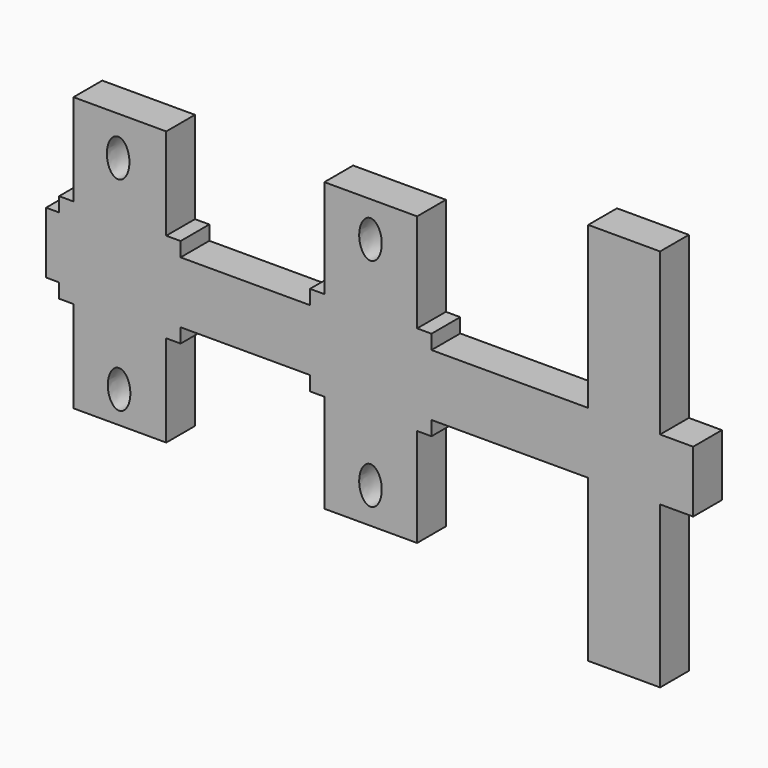
from build123d import *

# Parameters (mm, degrees)
F1_DEPTH = 25
F2_DEPTH = 25


with BuildPart() as f1:
    # F0 (on Front) → F1 (new body)
    with BuildSketch(Plane.XZ):
        Polygon((334.522346, -21.4), (334.522346, 0), (334.522346, 21.4), (311.522346, 21.4), (311.522346, 0), (311.522346, -21.4), align=None)
        Polygon((311.522346, 0), (311.522346, 21.4), (311.522346, 133.486167), (261.522346, 133.486167), (261.522346, 21.4), (261.522346, 0), (261.522346, -21.4), (261.522346, -133.486167), (311.522346, -133.486167), (311.522346, -21.4), align=None)
        Polygon((261.522346, 0), (261.522346, 21.4), (152.522346, 21.4), (152.522346, 0), (152.522346, -21.4), (261.522346, -21.4), align=None)
        Polygon((152.522346, 0), (152.522346, 21.4), (152.522346, 31.4), (142.522346, 31.4), (142.522346, 0), (142.522346, -31.4), (152.522346, -31.4), (152.522346, -21.4), align=None)
        Polygon((142.522346, 0), (142.522346, 31.4), (142.522346, 100), (78.022346, 100), (78.022346, 31.4), (78.022346, 0), (78.022346, -31.4), (78.022346, -100), (142.522346, -100), (142.522346, -31.4), align=None)
        with BuildLine():
            add(Edge.make_bspline(
                [(110.076547, -88.321767), (123.648199, -88.321767), (116.862373, -68.748459), (110.076547, -49.175151), (103.29072, -68.748459), (96.504894, -88.321767), (110.076547, -88.321767)],
                knots=[0, 0, 0, 2.094395, 2.094395, 4.18879, 4.18879, 6.283185, 6.283185, 6.283185], degree=2, weights=[1, 0.5, 1, 0.5, 1, 0.5, 1]))
        make_face(mode=Mode.SUBTRACT)
        with BuildLine():
            add(Edge.make_bspline(
                [(110.076547, 62.291205), (123.648199, 62.291205), (116.862373, 81.864513), (110.076547, 101.437821), (103.29072, 81.864513), (96.504894, 62.291205), (110.076547, 62.291205)],
                knots=[0, 0, 0, 2.094395, 2.094395, 4.18879, 4.18879, 6.283185, 6.283185, 6.283185], degree=2, weights=[1, 0.5, 1, 0.5, 1, 0.5, 1]))
        make_face(mode=Mode.SUBTRACT)
        Polygon((78.022346, 0), (78.022346, 31.4), (68.022346, 31.4), (68.022346, 21.4), (68.022346, 0), (68.022346, -21.4), (68.022346, -31.4), (78.022346, -31.4), align=None)
        Polygon((68.022346, 0), (68.022346, 21.4), (-21.977654, 21.4), (-21.977654, 0), (-21.977654, -21.4), (68.022346, -21.4), align=None)
        Polygon((-21.977654, 0), (-21.977654, 21.4), (-21.977654, 31.4), (-31.977654, 31.4), (-31.977654, 0), (-31.977654, -31.4), (-21.977654, -31.4), (-21.977654, -21.4), align=None)
        Polygon((-31.977654, 0), (-31.977654, 31.4), (-31.977654, 95.27199), (-96.477654, 95.27199), (-96.477654, 31.4), (-96.477654, 0), (-96.477654, -31.4), (-96.477654, -95.27199), (-31.977654, -95.27199), (-31.977654, -31.4), align=None)
        with BuildLine():
            add(Edge.make_bspline(
                [(-64.765468, -86.35725), (-51.193816, -86.35725), (-57.979642, -66.783942), (-64.765468, -47.210634), (-71.551294, -66.783942), (-78.337121, -86.35725), (-64.765468, -86.35725)],
                knots=[0, 0, 0, 2.094395, 2.094395, 4.18879, 4.18879, 6.283185, 6.283185, 6.283185], degree=2, weights=[1, 0.5, 1, 0.5, 1, 0.5, 1]))
        make_face(mode=Mode.SUBTRACT)
        with BuildLine():
            add(Edge.make_bspline(
                [(-65.420307, 55.087976), (-51.848655, 55.087976), (-58.634481, 74.661285), (-65.420307, 94.234593), (-72.206133, 74.661285), (-78.99196, 55.087976), (-65.420307, 55.087976)],
                knots=[0, 0, 0, 2.094395, 2.094395, 4.18879, 4.18879, 6.283185, 6.283185, 6.283185], degree=2, weights=[1, 0.5, 1, 0.5, 1, 0.5, 1]))
        make_face(mode=Mode.SUBTRACT)
        Polygon((-96.477654, 0), (-96.477654, 31.4), (-106.477654, 31.4), (-106.477654, 21.4), (-106.477654, 0), (-106.477654, -21.4), (-106.477654, -31.4), (-96.477654, -31.4), align=None)
        Polygon((-106.477654, 0), (-106.477654, 21.4), (-115.539879, 21.4), (-115.477654, 0), (-115.539879, -21.4), (-106.477654, -21.4), align=None)
    extrude(amount=F1_DEPTH)

    # F0 (on Front) → F2 (join)
    with BuildSketch(Plane.XZ):
        Polygon((334.522346, -21.4), (334.522346, 0), (334.522346, 21.4), (311.522346, 21.4), (311.522346, 0), (311.522346, -21.4), align=None)
        Polygon((311.522346, 0), (311.522346, 21.4), (311.522346, 133.486167), (261.522346, 133.486167), (261.522346, 21.4), (261.522346, 0), (261.522346, -21.4), (261.522346, -133.486167), (311.522346, -133.486167), (311.522346, -21.4), align=None)
        Polygon((261.522346, 0), (261.522346, 21.4), (152.522346, 21.4), (152.522346, 0), (152.522346, -21.4), (261.522346, -21.4), align=None)
        Polygon((152.522346, 0), (152.522346, 21.4), (152.522346, 31.4), (142.522346, 31.4), (142.522346, 0), (142.522346, -31.4), (152.522346, -31.4), (152.522346, -21.4), align=None)
        Polygon((142.522346, 0), (142.522346, 31.4), (142.522346, 100), (78.022346, 100), (78.022346, 31.4), (78.022346, 0), (78.022346, -31.4), (78.022346, -100), (142.522346, -100), (142.522346, -31.4), align=None)
        with BuildLine():
            add(Edge.make_bspline(
                [(110.076547, -88.321767), (123.648199, -88.321767), (116.862373, -68.748459), (110.076547, -49.175151), (103.29072, -68.748459), (96.504894, -88.321767), (110.076547, -88.321767)],
                knots=[0, 0, 0, 2.094395, 2.094395, 4.18879, 4.18879, 6.283185, 6.283185, 6.283185], degree=2, weights=[1, 0.5, 1, 0.5, 1, 0.5, 1]))
        make_face(mode=Mode.SUBTRACT)
        with BuildLine():
            add(Edge.make_bspline(
                [(110.076547, 62.291205), (123.648199, 62.291205), (116.862373, 81.864513), (110.076547, 101.437821), (103.29072, 81.864513), (96.504894, 62.291205), (110.076547, 62.291205)],
                knots=[0, 0, 0, 2.094395, 2.094395, 4.18879, 4.18879, 6.283185, 6.283185, 6.283185], degree=2, weights=[1, 0.5, 1, 0.5, 1, 0.5, 1]))
        make_face(mode=Mode.SUBTRACT)
        Polygon((78.022346, 0), (78.022346, 31.4), (68.022346, 31.4), (68.022346, 21.4), (68.022346, 0), (68.022346, -21.4), (68.022346, -31.4), (78.022346, -31.4), align=None)
        Polygon((68.022346, 0), (68.022346, 21.4), (-21.977654, 21.4), (-21.977654, 0), (-21.977654, -21.4), (68.022346, -21.4), align=None)
        Polygon((-21.977654, 0), (-21.977654, 21.4), (-21.977654, 31.4), (-31.977654, 31.4), (-31.977654, 0), (-31.977654, -31.4), (-21.977654, -31.4), (-21.977654, -21.4), align=None)
        Polygon((-31.977654, 0), (-31.977654, 31.4), (-31.977654, 95.27199), (-96.477654, 95.27199), (-96.477654, 31.4), (-96.477654, 0), (-96.477654, -31.4), (-96.477654, -95.27199), (-31.977654, -95.27199), (-31.977654, -31.4), align=None)
        with BuildLine():
            add(Edge.make_bspline(
                [(-64.765468, -86.35725), (-51.193816, -86.35725), (-57.979642, -66.783942), (-64.765468, -47.210634), (-71.551294, -66.783942), (-78.337121, -86.35725), (-64.765468, -86.35725)],
                knots=[0, 0, 0, 2.094395, 2.094395, 4.18879, 4.18879, 6.283185, 6.283185, 6.283185], degree=2, weights=[1, 0.5, 1, 0.5, 1, 0.5, 1]))
        make_face(mode=Mode.SUBTRACT)
        with BuildLine():
            add(Edge.make_bspline(
                [(-65.420307, 55.087976), (-51.848655, 55.087976), (-58.634481, 74.661285), (-65.420307, 94.234593), (-72.206133, 74.661285), (-78.99196, 55.087976), (-65.420307, 55.087976)],
                knots=[0, 0, 0, 2.094395, 2.094395, 4.18879, 4.18879, 6.283185, 6.283185, 6.283185], degree=2, weights=[1, 0.5, 1, 0.5, 1, 0.5, 1]))
        make_face(mode=Mode.SUBTRACT)
        Polygon((-96.477654, 0), (-96.477654, 31.4), (-106.477654, 31.4), (-106.477654, 21.4), (-106.477654, 0), (-106.477654, -21.4), (-106.477654, -31.4), (-96.477654, -31.4), align=None)
        Polygon((-106.477654, 0), (-106.477654, 21.4), (-115.539879, 21.4), (-115.477654, 0), (-115.539879, -21.4), (-106.477654, -21.4), align=None)
    extrude(amount=F2_DEPTH)


solid = f1.part
